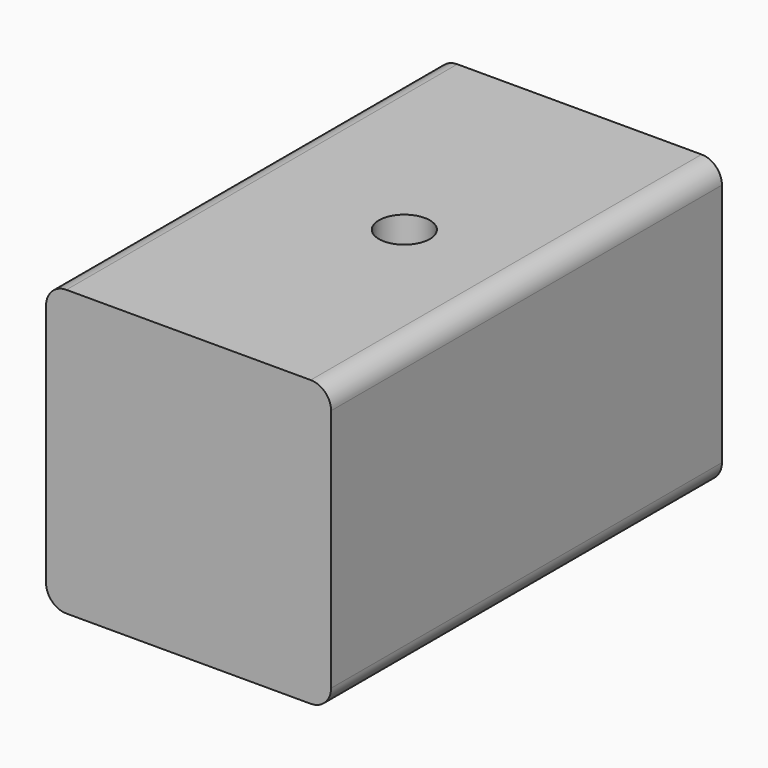
from build123d import *

# Parameters (mm, degrees)
CYLINDER_R                 = 3.96875
CYLINDER_DEPTH             = 50.8
EXTRUDE017_DEPTH           = 76.2
EXTRUDE017_ROLL_ANGLE      = 90
EXTRUDE017_PLACEMENT_ANGLE = 180


with BuildPart() as cylinder:
    # Cylinder → Cylinder (new body)
    with BuildSketch(Plane(origin=(381, 203.2, 16.66875), x_dir=(1, 0, 0), z_dir=(0, 0, 1))):
        Circle(CYLINDER_R)
    extrude(amount=CYLINDER_DEPTH)


with BuildPart() as baffle_anchor_a:
    # Sketch017 → Extrude017 (new body)
    with BuildSketch(Plane.XY):
        with BuildLine():
            Line((0, 41.275), (0, 3.175))
            ThreePointArc((0, 3.175), (0.929936, 0.929936), (3.175, 0))
            Line((41.275, 0), (3.175, 0))
            ThreePointArc((41.275, 0), (43.520064, 0.929936), (44.45, 3.175))
            Line((44.45, 41.275), (44.45, 3.175))
            ThreePointArc((44.45, 41.275), (43.520064, 43.520064), (41.275, 44.45))
            Line((3.175, 44.45), (41.275, 44.45))
            ThreePointArc((3.175, 44.45), (0.929936, 43.520064), (0, 41.275))
        make_face()
    extrude(amount=EXTRUDE017_DEPTH)


with BuildPart() as baffle_anchor_a_1:
    # Extrude017 roll: moved
    add(baffle_anchor_a.part.rotate(Axis((0, 0, 0), (1, 0, 0)), EXTRUDE017_ROLL_ANGLE))


with BuildPart() as baffle_anchor_a_2:
    # Extrude017 placement: moved
    add(baffle_anchor_a_1.part.moved(Location((400.05, 165.1, 19.05))).rotate(Axis((400.05, 165.1, 19.05), (0, 0, 1)), EXTRUDE017_PLACEMENT_ANGLE))

    # Cut: cut Cylinder
    add(cylinder.part, mode=Mode.SUBTRACT)


solid = baffle_anchor_a_2.part
